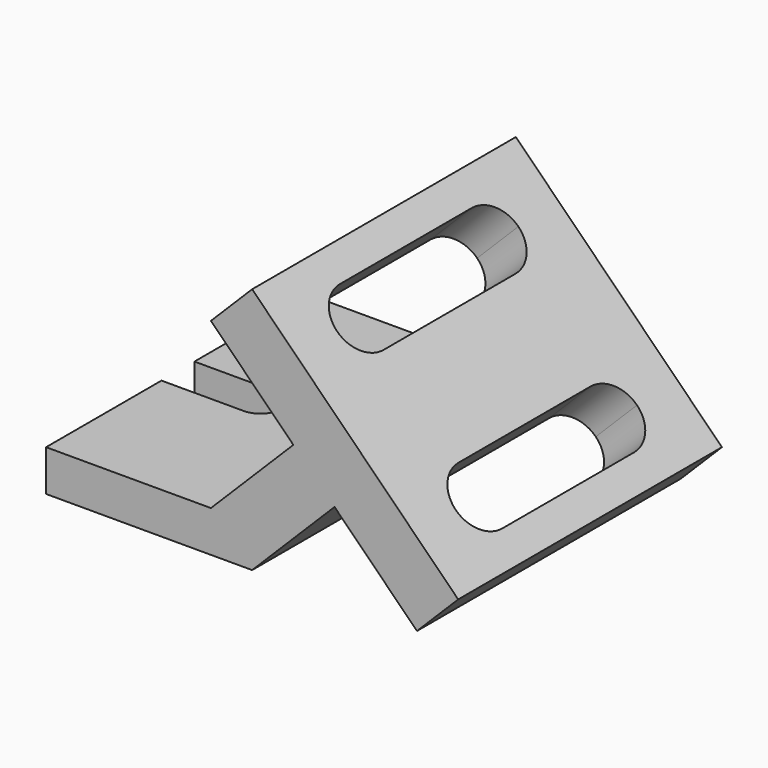
from build123d import *

# Parameters (mm, degrees)
F1_DEPTH = 101.6
F3_DEPTH = 40.894
F5_DEPTH = 25.401


with BuildPart() as f1:
    # F0 (on Front) → F1 (new body, symmetric)
    with BuildSketch(Plane.XZ):
        Polygon((101.6, 0), (0, 0), (0, -25.4), (127, -25.4), (177.8, 25.4), (228.6, -25.4), (254, 0), (127, 127), (101.6, 101.6), (152.4, 50.8), align=None)
    extrude(amount=F1_DEPTH, both=True)

    # F2 (on face) → F3 (cut)
    with BuildSketch(Plane(origin=(127, 0, 127), x_dir=(0, 1, 0), z_dir=(0.707107, 0, 0.707107))):
        with BuildLine():
            ThreePointArc((-50.8, -19.05), (-37.329616, -24.629616), (-31.75, -38.1))
            ThreePointArc((-31.75, -38.1), (-37.329616, -51.570384), (-50.8, -57.15))
            Line((-50.8, -57.15), (50.8, -57.15))
            ThreePointArc((50.8, -57.15), (31.75, -38.1), (50.8, -19.05))
            Line((50.8, -19.05), (-50.8, -19.05))
        make_face()
        with BuildLine():
            ThreePointArc((-50.8, -57.15), (-37.329616, -51.570384), (-31.75, -38.1))
            ThreePointArc((-31.75, -38.1), (-37.329616, -24.629616), (-50.8, -19.05))
            ThreePointArc((-50.8, -19.05), (-69.85, -38.1), (-50.8, -57.15))
        make_face()
        with BuildLine():
            ThreePointArc((69.85, -38.1), (64.270384, -24.629616), (50.8, -19.05))
            ThreePointArc((50.8, -19.05), (31.75, -38.1), (50.8, -57.15))
            ThreePointArc((50.8, -57.15), (64.270384, -51.570384), (69.85, -38.1))
        make_face()
        with BuildLine():
            ThreePointArc((69.85, -141.505122), (64.270384, -128.034738), (50.8, -122.455122))
            ThreePointArc((50.8, -122.455122), (31.75, -141.505122), (50.8, -160.555122))
            ThreePointArc((50.8, -160.555122), (64.270384, -154.975507), (69.85, -141.505122))
        make_face()
        with BuildLine():
            ThreePointArc((-50.8, -122.455122), (-37.329616, -128.034738), (-31.75, -141.505122))
            ThreePointArc((-31.75, -141.505122), (-37.329616, -154.975507), (-50.8, -160.555122))
            Line((-50.8, -160.555122), (50.8, -160.555122))
            ThreePointArc((50.8, -160.555122), (31.75, -141.505122), (50.8, -122.455122))
            Line((50.8, -122.455122), (-50.8, -122.455122))
        make_face()
        with BuildLine():
            ThreePointArc((-50.8, -160.555122), (-37.329616, -154.975507), (-31.75, -141.505122))
            ThreePointArc((-31.75, -141.505122), (-37.329616, -128.034738), (-50.8, -122.455122))
            ThreePointArc((-50.8, -122.455122), (-69.85, -141.505122), (-50.8, -160.555122))
        make_face()
    extrude(amount=-F3_DEPTH, mode=Mode.SUBTRACT)

    # F4 (on face) → F5 (cut, through all)
    with BuildSketch(Plane.XY):
        with BuildLine():
            Line((0, -12.7), (50.8, -12.7))
            ThreePointArc((50.8, -12.7), (63.5, 0), (50.8, 12.7))
            Line((50.8, 12.7), (0, 12.7))
            Line((0, 12.7), (0, 0))
            Line((0, 0), (0, -12.7))
        make_face()
    extrude(amount=-F5_DEPTH, mode=Mode.SUBTRACT)


solid = f1.part
